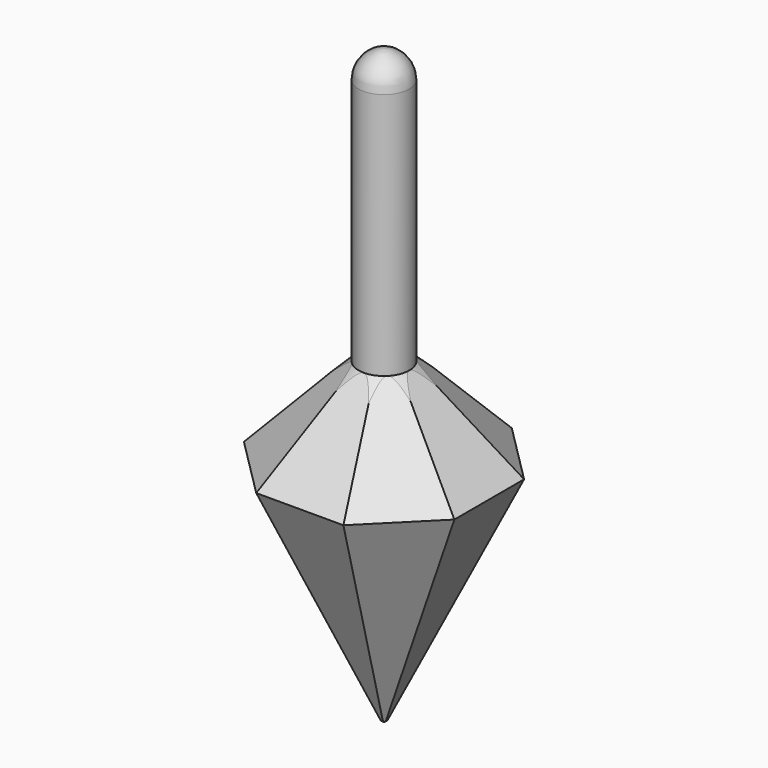
from build123d import *

# Parameters (mm, degrees)
F3_DEPTH = 13
F4_COUNT = 8


with BuildPart() as f1:
    # F0 (on Front) → F1 (revolve)
    with BuildSketch(Plane.XZ):
        with BuildLine():
            Line((-18.617928, 35.403005), (0, 0))
            Line((0, 0), (0, 86.055242))
            Line((0, 86.055242), (0, 90.16896))
            ThreePointArc((0, 90.16896), (-2.721351, 88.86404), (-3.825534, 86.055242))
            Line((-3.825534, 86.055242), (-3.825534, 48.612267))
            Line((-3.825534, 48.612267), (-18.617928, 35.403005))
        make_face()
    revolve(axis=Axis((0, 0, 43.027621), (0, 0, -1)))


with BuildPart() as f3:
    # F2 (on Front) → F3 (new body, symmetric)
    with BuildSketch(Plane.XZ):
        Polygon((-23.420138, 35.378061), (0, 0), (-15.903788, 35.378061), align=None)
        Polygon((-23.420138, 35.378061), (-15.903788, 35.378061), (-3.825471, 48.612256), align=None)
    extrude(amount=F3_DEPTH, both=True)


with BuildPart() as f4_1:
    # F4: instance of F3
    add(f3.part.rotate(Axis((0, 0, 35.403005), (0, 0, -1)), 1 * 360 / F4_COUNT))


with BuildPart() as f4_2:
    # F4: instance of F3
    add(f3.part.rotate(Axis((0, 0, 35.403005), (0, 0, -1)), 2 * 360 / F4_COUNT))


with BuildPart() as f4_3:
    # F4: instance of F3
    add(f3.part.rotate(Axis((0, 0, 35.403005), (0, 0, -1)), 3 * 360 / F4_COUNT))


with BuildPart() as f4_4:
    # F4: instance of F3
    add(f3.part.rotate(Axis((0, 0, 35.403005), (0, 0, -1)), 4 * 360 / F4_COUNT))


with BuildPart() as f4_5:
    # F4: instance of F3
    add(f3.part.rotate(Axis((0, 0, 35.403005), (0, 0, -1)), 5 * 360 / F4_COUNT))


with BuildPart() as f4_6:
    # F4: instance of F3
    add(f3.part.rotate(Axis((0, 0, 35.403005), (0, 0, -1)), 6 * 360 / F4_COUNT))


with BuildPart() as f4_7:
    # F4: instance of F3
    add(f3.part.rotate(Axis((0, 0, 35.403005), (0, 0, -1)), 7 * 360 / F4_COUNT))


with BuildPart() as f1_1:
    add(f1.part)

    # F5: cut F3, F4_1, F4_2, F4_3, F4_4, F4_5, F4_6, F4_7
    add(f3.part, mode=Mode.SUBTRACT)
    add(f4_1.part, mode=Mode.SUBTRACT)
    add(f4_2.part, mode=Mode.SUBTRACT)
    add(f4_3.part, mode=Mode.SUBTRACT)
    add(f4_4.part, mode=Mode.SUBTRACT)
    add(f4_5.part, mode=Mode.SUBTRACT)
    add(f4_6.part, mode=Mode.SUBTRACT)
    add(f4_7.part, mode=Mode.SUBTRACT)

    # F6 (on Front) → F7 (revolve, cut)
    with BuildSketch(Plane.XZ):
        Polygon((0.528422, 0.839294), (0.416001, 0.927646), (0, 0), (0.095352, -0.228872), align=None)
        with BuildLine():
            Line((0, 0), (0.416001, 0.927646))
            ThreePointArc((0.416001, 0.927646), (0.247722, 0.732428), (0, 0.661285))
            Line((0, 0.661285), (0, 0))
        make_face()
    revolve(axis=Axis((0, 0, 0.330642), (0, 0, -1)), mode=Mode.SUBTRACT)


solid = f1_1.part
